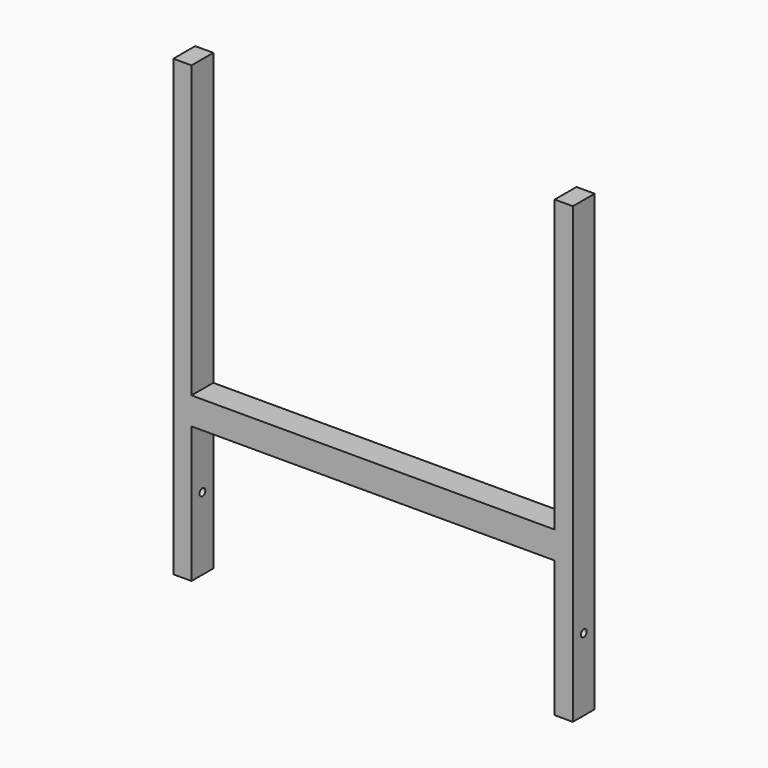
from build123d import *

# Parameters (mm, degrees)
F0_W     = 400
F0_H     = 30
F1_DEPTH = 30
F2_R     = 4
F3_DEPTH = 440.001


with BuildPart() as f1:
    # F0 (on Front) → F1 (new body)
    with BuildSketch(Plane.XZ):
        Polygon((-250, 151.06228), (-270, 151.06228), (-270, -348.93772), (-250, -348.93772), (-250, -198.93772), (-250, -168.93772), align=None)
        with Locations((-50, -183.93772)):
            Rectangle(F0_W, F0_H)
        Polygon((150, 151.06228), (150, -168.93772), (150, -198.93772), (150, -348.93772), (170, -348.93772), (170, 151.06228), align=None)
    extrude(amount=F1_DEPTH)

    # F2 (on face) → F3 (cut, through all)
    with BuildSketch(Plane.YZ.offset(170)):
        with Locations((-15, -268.93772)):
            Circle(F2_R)
    extrude(amount=-F3_DEPTH, mode=Mode.SUBTRACT)


solid = f1.part
